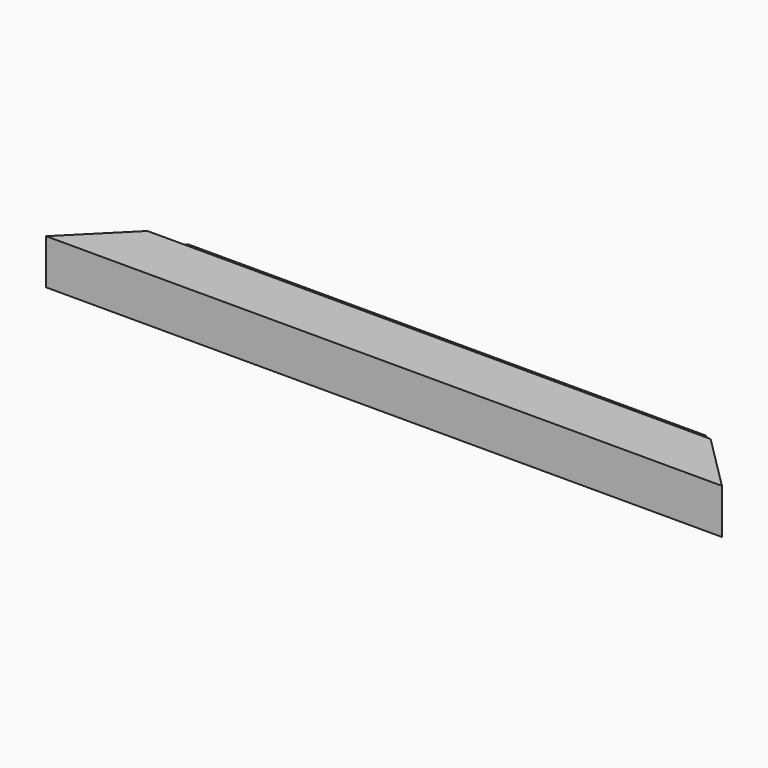
from build123d import *

# Parameters (mm, degrees)
F1_DEPTH = 14
F3_DEPTH = 6


with BuildPart() as f1:
    # F0 (on Top) → F1 (new body)
    with BuildSketch(Plane.XY):
        Polygon((156.296444, 24.850693), (-73.703556, 24.850693), (-83.703556, 14.850693), (166.296444, 14.850693), align=None)
        Polygon((166.296444, 14.850693), (-83.703556, 14.850693), (-108.703556, -10.149307), (191.296444, -10.149307), align=None)
    extrude(amount=F1_DEPTH)

    # F2 (on face) → F3 (join)
    with BuildSketch(Plane.XY.offset(14)):
        Polygon((166.296444, 14.850693), (-83.703556, 14.850693), (-108.703556, -10.149307), (191.296444, -10.149307), align=None)
    extrude(amount=F3_DEPTH)


solid = f1.part
